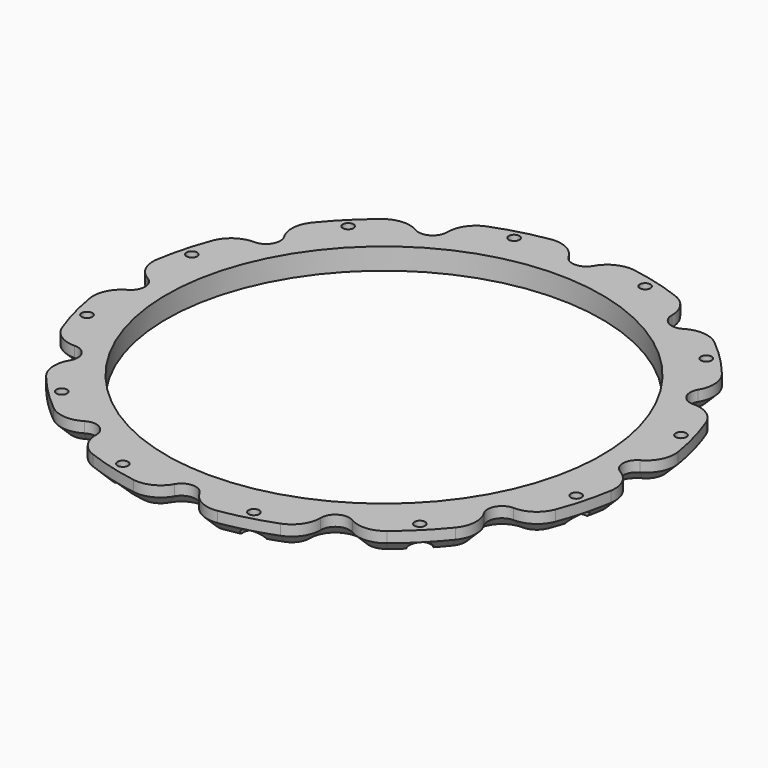
from build123d import *

# Parameters (mm, degrees)
CYLINDER2115_R               = 3
CYLINDER2115_DEPTH           = 3
CYLINDER2115_PLACEMENT_ANGLE = 30
CYLINDER2129_R               = 3
CYLINDER2129_DEPTH           = 3
CYLINDER2129_PLACEMENT_ANGLE = 60
CYLINDER2127_R               = 3
CYLINDER2127_DEPTH           = 3
CYLINDER2120_R               = 3
CYLINDER2120_DEPTH           = 3
CYLINDER2120_PLACEMENT_ANGLE = 120
CYLINDER2119_R               = 3
CYLINDER2119_DEPTH           = 3
CYLINDER2119_PLACEMENT_ANGLE = 150
CYLINDER2130_R               = 3
CYLINDER2130_DEPTH           = 3
CYLINDER2139_R               = 3
CYLINDER2139_DEPTH           = 3
CYLINDER2139_PLACEMENT_ANGLE = 210
CYLINDER2111_R               = 3
CYLINDER2111_DEPTH           = 3
CYLINDER2111_PLACEMENT_ANGLE = 240
CYLINDER2125_R               = 3
CYLINDER2125_DEPTH           = 3
CYLINDER2116_R               = 3
CYLINDER2116_DEPTH           = 3
CYLINDER2116_PLACEMENT_ANGLE = 60
CYLINDER2418_R               = 3
CYLINDER2418_DEPTH           = 3
CYLINDER2418_PLACEMENT_ANGLE = 30
CYLINDER2138_R               = 3
CYLINDER2138_DEPTH           = 3
CYLINDER2124_R               = 1.5
CYLINDER2124_DEPTH           = 60
CYLINDER2124_PLACEMENT_ANGLE = 30
CYLINDER2128_R               = 1.5
CYLINDER2128_DEPTH           = 60
CYLINDER2128_PLACEMENT_ANGLE = 60
CYLINDER2117_R               = 1.5
CYLINDER2117_DEPTH           = 60
CYLINDER2118_R               = 1.5
CYLINDER2118_DEPTH           = 60
CYLINDER2118_PLACEMENT_ANGLE = 120
CYLINDER2126_R               = 1.5
CYLINDER2126_DEPTH           = 60
CYLINDER2126_PLACEMENT_ANGLE = 150
CYLINDER2123_R               = 1.5
CYLINDER2123_DEPTH           = 60
CYLINDER2121_R               = 1.5
CYLINDER2121_DEPTH           = 60
CYLINDER2121_PLACEMENT_ANGLE = 210
CYLINDER2112_R               = 1.5
CYLINDER2112_DEPTH           = 60
CYLINDER2112_PLACEMENT_ANGLE = 240
CYLINDER2113_R               = 1.5
CYLINDER2113_DEPTH           = 60
CYLINDER2114_R               = 1.5
CYLINDER2114_DEPTH           = 60
CYLINDER2114_PLACEMENT_ANGLE = 60
CYLINDER2417_R               = 1.5
CYLINDER2417_DEPTH           = 60
CYLINDER2417_PLACEMENT_ANGLE = 30
CYLINDER2122_R               = 1.5
CYLINDER2122_DEPTH           = 60
CYLINDER2142_R               = 4
CYLINDER2142_DEPTH           = 32
CYLINDER2142_PLACEMENT_ANGLE = 30
CYLINDER2137_R               = 4
CYLINDER2137_DEPTH           = 32
CYLINDER2137_PLACEMENT_ANGLE = 60
CYLINDER2134_R               = 4
CYLINDER2134_DEPTH           = 32
CYLINDER2131_R               = 4
CYLINDER2131_DEPTH           = 32
CYLINDER2131_PLACEMENT_ANGLE = 120
CYLINDER2135_R               = 4
CYLINDER2135_DEPTH           = 32
CYLINDER2135_PLACEMENT_ANGLE = 150
CYLINDER2141_R               = 4
CYLINDER2141_DEPTH           = 32
CYLINDER2132_R               = 4
CYLINDER2132_DEPTH           = 32
CYLINDER2132_PLACEMENT_ANGLE = 210
CYLINDER2143_R               = 4
CYLINDER2143_DEPTH           = 32
CYLINDER2143_PLACEMENT_ANGLE = 240
CYLINDER2140_R               = 4
CYLINDER2140_DEPTH           = 32
CYLINDER2144_R               = 4
CYLINDER2144_DEPTH           = 32
CYLINDER2144_PLACEMENT_ANGLE = 60
CYLINDER2136_R               = 4
CYLINDER2136_DEPTH           = 32
CYLINDER2136_PLACEMENT_ANGLE = 30
CYLINDER2133_R               = 4
CYLINDER2133_DEPTH           = 32
COMPOUND1118_PLACEMENT_ANGLE = 15
TUBE053_R                    = 74
TUBE053_R_2                  = 61
TUBE053_DEPTH                = 6
FILLET005_R                  = 8
FILLET006_R                  = 8
FILLET007_R                  = 8
FILLET008_R                  = 8
CHAMFER084_SIZE              = 3
CUT706_ROLL_ANGLE            = 180
CUT706_PLACEMENT_ANGLE       = 15


with BuildPart() as obj1:
    # Cylinder2115 → Cylinder2115 (new body)
    with BuildSketch(Plane.XY):
        Circle(CYLINDER2115_R)
    extrude(amount=CYLINDER2115_DEPTH)


with BuildPart() as obj1_1:
    # Cylinder2115 placement: moved
    add(obj1.part.moved(Location((35.5, -61.487804, 0))).rotate(Axis((35.5, -61.487804, 0), (0, 0, 1)), CYLINDER2115_PLACEMENT_ANGLE))


with BuildPart() as obj2:
    # Cylinder2129 → Cylinder2129 (new body)
    with BuildSketch(Plane.XY):
        Circle(CYLINDER2129_R)
    extrude(amount=CYLINDER2129_DEPTH)


with BuildPart() as obj2_1:
    # Cylinder2129 placement: moved
    add(obj2.part.moved(Location((61.487804, -35.5, 0))).rotate(Axis((61.487804, -35.5, 0), (0, 0, 1)), CYLINDER2129_PLACEMENT_ANGLE))


with BuildPart() as obj3:
    # Cylinder2127 → Cylinder2127 (new body)
    with BuildSketch(Plane(origin=(71, 0, 0), x_dir=(0, 1, 0), z_dir=(0, 0, 1))):
        Circle(CYLINDER2127_R)
    extrude(amount=CYLINDER2127_DEPTH)


with BuildPart() as obj4:
    # Cylinder2120 → Cylinder2120 (new body)
    with BuildSketch(Plane.XY):
        Circle(CYLINDER2120_R)
    extrude(amount=CYLINDER2120_DEPTH)


with BuildPart() as obj4_1:
    # Cylinder2120 placement: moved
    add(obj4.part.moved(Location((61.487804, 35.5, 0))).rotate(Axis((61.487804, 35.5, 0), (0, 0, 1)), CYLINDER2120_PLACEMENT_ANGLE))


with BuildPart() as obj5:
    # Cylinder2119 → Cylinder2119 (new body)
    with BuildSketch(Plane.XY):
        Circle(CYLINDER2119_R)
    extrude(amount=CYLINDER2119_DEPTH)


with BuildPart() as obj5_1:
    # Cylinder2119 placement: moved
    add(obj5.part.moved(Location((35.5, 61.487804, 0))).rotate(Axis((35.5, 61.487804, 0), (0, 0, 1)), CYLINDER2119_PLACEMENT_ANGLE))


with BuildPart() as obj6:
    # Cylinder2130 → Cylinder2130 (new body)
    with BuildSketch(Plane(origin=(0, 71, 0), x_dir=(-1, 0, 0), z_dir=(0, 0, 1))):
        Circle(CYLINDER2130_R)
    extrude(amount=CYLINDER2130_DEPTH)


with BuildPart() as obj7:
    # Cylinder2139 → Cylinder2139 (new body)
    with BuildSketch(Plane.XY):
        Circle(CYLINDER2139_R)
    extrude(amount=CYLINDER2139_DEPTH)


with BuildPart() as obj7_1:
    # Cylinder2139 placement: moved
    add(obj7.part.moved(Location((-35.5, 61.487804, 0))).rotate(Axis((-35.5, 61.487804, 0), (0, 0, 1)), CYLINDER2139_PLACEMENT_ANGLE))


with BuildPart() as obj8:
    # Cylinder2111 → Cylinder2111 (new body)
    with BuildSketch(Plane.XY):
        Circle(CYLINDER2111_R)
    extrude(amount=CYLINDER2111_DEPTH)


with BuildPart() as obj8_1:
    # Cylinder2111 placement: moved
    add(obj8.part.moved(Location((-61.487804, 35.5, 0))).rotate(Axis((-61.487804, 35.5, 0), (0, 0, 1)), CYLINDER2111_PLACEMENT_ANGLE))


with BuildPart() as obj9:
    # Cylinder2125 → Cylinder2125 (new body)
    with BuildSketch(Plane(origin=(-71, 0, 0), x_dir=(0, -1, 0), z_dir=(0, 0, 1))):
        Circle(CYLINDER2125_R)
    extrude(amount=CYLINDER2125_DEPTH)


with BuildPart() as obj10:
    # Cylinder2116 → Cylinder2116 (new body)
    with BuildSketch(Plane.XY):
        Circle(CYLINDER2116_R)
    extrude(amount=CYLINDER2116_DEPTH)


with BuildPart() as obj10_1:
    # Cylinder2116 placement: moved
    add(obj10.part.moved(Location((-61.487804, -35.5, 0))).rotate(Axis((-61.487804, -35.5, 0), (0, 0, -1)), CYLINDER2116_PLACEMENT_ANGLE))


with BuildPart() as obj11:
    # Cylinder2418 → Cylinder2418 (new body)
    with BuildSketch(Plane.XY):
        Circle(CYLINDER2418_R)
    extrude(amount=CYLINDER2418_DEPTH)


with BuildPart() as obj11_1:
    # Cylinder2418 placement: moved
    add(obj11.part.moved(Location((-35.5, -61.487804, 0))).rotate(Axis((-35.5, -61.487804, 0), (0, 0, -1)), CYLINDER2418_PLACEMENT_ANGLE))


with BuildPart() as compound1117:
    # Cylinder2138 → Cylinder2138 (new body)
    with BuildSketch(Plane(origin=(0, -71, 0), x_dir=(1, 0, 0), z_dir=(0, 0, 1))):
        Circle(CYLINDER2138_R)
    extrude(amount=CYLINDER2138_DEPTH)

    # Compound1117: union obj1, obj2, obj3, obj4, obj5, obj6, obj7, obj8, obj9, obj10, obj11
    add(obj1_1.part)
    add(obj2_1.part)
    add(obj3.part)
    add(obj4_1.part)
    add(obj5_1.part)
    add(obj6.part)
    add(obj7_1.part)
    add(obj8_1.part)
    add(obj9.part)
    add(obj10_1.part)
    add(obj11_1.part)


with BuildPart() as compound1117_1:
    # Compound1117 placement: moved
    add(compound1117.part.moved(Location((0, 0, 17))))


with BuildPart() as obj12:
    # Cylinder2124 → Cylinder2124 (new body)
    with BuildSketch(Plane.XY):
        Circle(CYLINDER2124_R)
    extrude(amount=CYLINDER2124_DEPTH)


with BuildPart() as obj12_1:
    # Cylinder2124 placement: moved
    add(obj12.part.moved(Location((35.5, -61.487804, 0))).rotate(Axis((35.5, -61.487804, 0), (0, 0, 1)), CYLINDER2124_PLACEMENT_ANGLE))


with BuildPart() as obj13:
    # Cylinder2128 → Cylinder2128 (new body)
    with BuildSketch(Plane.XY):
        Circle(CYLINDER2128_R)
    extrude(amount=CYLINDER2128_DEPTH)


with BuildPart() as obj13_1:
    # Cylinder2128 placement: moved
    add(obj13.part.moved(Location((61.487804, -35.5, 0))).rotate(Axis((61.487804, -35.5, 0), (0, 0, 1)), CYLINDER2128_PLACEMENT_ANGLE))


with BuildPart() as obj14:
    # Cylinder2117 → Cylinder2117 (new body)
    with BuildSketch(Plane(origin=(71, 0, 0), x_dir=(0, 1, 0), z_dir=(0, 0, 1))):
        Circle(CYLINDER2117_R)
    extrude(amount=CYLINDER2117_DEPTH)


with BuildPart() as obj15:
    # Cylinder2118 → Cylinder2118 (new body)
    with BuildSketch(Plane.XY):
        Circle(CYLINDER2118_R)
    extrude(amount=CYLINDER2118_DEPTH)


with BuildPart() as obj15_1:
    # Cylinder2118 placement: moved
    add(obj15.part.moved(Location((61.487804, 35.5, 0))).rotate(Axis((61.487804, 35.5, 0), (0, 0, 1)), CYLINDER2118_PLACEMENT_ANGLE))


with BuildPart() as obj16:
    # Cylinder2126 → Cylinder2126 (new body)
    with BuildSketch(Plane.XY):
        Circle(CYLINDER2126_R)
    extrude(amount=CYLINDER2126_DEPTH)


with BuildPart() as obj16_1:
    # Cylinder2126 placement: moved
    add(obj16.part.moved(Location((35.5, 61.487804, 0))).rotate(Axis((35.5, 61.487804, 0), (0, 0, 1)), CYLINDER2126_PLACEMENT_ANGLE))


with BuildPart() as obj17:
    # Cylinder2123 → Cylinder2123 (new body)
    with BuildSketch(Plane(origin=(0, 71, 0), x_dir=(-1, 0, 0), z_dir=(0, 0, 1))):
        Circle(CYLINDER2123_R)
    extrude(amount=CYLINDER2123_DEPTH)


with BuildPart() as obj18:
    # Cylinder2121 → Cylinder2121 (new body)
    with BuildSketch(Plane.XY):
        Circle(CYLINDER2121_R)
    extrude(amount=CYLINDER2121_DEPTH)


with BuildPart() as obj18_1:
    # Cylinder2121 placement: moved
    add(obj18.part.moved(Location((-35.5, 61.487804, 0))).rotate(Axis((-35.5, 61.487804, 0), (0, 0, 1)), CYLINDER2121_PLACEMENT_ANGLE))


with BuildPart() as obj19:
    # Cylinder2112 → Cylinder2112 (new body)
    with BuildSketch(Plane.XY):
        Circle(CYLINDER2112_R)
    extrude(amount=CYLINDER2112_DEPTH)


with BuildPart() as obj19_1:
    # Cylinder2112 placement: moved
    add(obj19.part.moved(Location((-61.487804, 35.5, 0))).rotate(Axis((-61.487804, 35.5, 0), (0, 0, 1)), CYLINDER2112_PLACEMENT_ANGLE))


with BuildPart() as obj20:
    # Cylinder2113 → Cylinder2113 (new body)
    with BuildSketch(Plane(origin=(-71, 0, 0), x_dir=(0, -1, 0), z_dir=(0, 0, 1))):
        Circle(CYLINDER2113_R)
    extrude(amount=CYLINDER2113_DEPTH)


with BuildPart() as obj21:
    # Cylinder2114 → Cylinder2114 (new body)
    with BuildSketch(Plane.XY):
        Circle(CYLINDER2114_R)
    extrude(amount=CYLINDER2114_DEPTH)


with BuildPart() as obj21_1:
    # Cylinder2114 placement: moved
    add(obj21.part.moved(Location((-61.487804, -35.5, 0))).rotate(Axis((-61.487804, -35.5, 0), (0, 0, -1)), CYLINDER2114_PLACEMENT_ANGLE))


with BuildPart() as obj22:
    # Cylinder2417 → Cylinder2417 (new body)
    with BuildSketch(Plane.XY):
        Circle(CYLINDER2417_R)
    extrude(amount=CYLINDER2417_DEPTH)


with BuildPart() as obj22_1:
    # Cylinder2417 placement: moved
    add(obj22.part.moved(Location((-35.5, -61.487804, 0))).rotate(Axis((-35.5, -61.487804, 0), (0, 0, -1)), CYLINDER2417_PLACEMENT_ANGLE))


with BuildPart() as compound1116:
    # Cylinder2122 → Cylinder2122 (new body)
    with BuildSketch(Plane(origin=(0, -71, 0), x_dir=(1, 0, 0), z_dir=(0, 0, 1))):
        Circle(CYLINDER2122_R)
    extrude(amount=CYLINDER2122_DEPTH)

    # Compound1116: union obj12, obj13, obj14, obj15, obj16, obj17, obj18, obj19, obj20, obj21, obj22
    add(obj12_1.part)
    add(obj13_1.part)
    add(obj14.part)
    add(obj15_1.part)
    add(obj16_1.part)
    add(obj17.part)
    add(obj18_1.part)
    add(obj19_1.part)
    add(obj20.part)
    add(obj21_1.part)
    add(obj22_1.part)


with BuildPart() as obj23:
    # Cylinder2142 → Cylinder2142 (new body)
    with BuildSketch(Plane.XY):
        Circle(CYLINDER2142_R)
    extrude(amount=CYLINDER2142_DEPTH)


with BuildPart() as obj23_1:
    # Cylinder2142 placement: moved
    add(obj23.part.moved(Location((35.5, -61.487804, 0))).rotate(Axis((35.5, -61.487804, 0), (0, 0, 1)), CYLINDER2142_PLACEMENT_ANGLE))


with BuildPart() as obj24:
    # Cylinder2137 → Cylinder2137 (new body)
    with BuildSketch(Plane.XY):
        Circle(CYLINDER2137_R)
    extrude(amount=CYLINDER2137_DEPTH)


with BuildPart() as obj24_1:
    # Cylinder2137 placement: moved
    add(obj24.part.moved(Location((61.487804, -35.5, 0))).rotate(Axis((61.487804, -35.5, 0), (0, 0, 1)), CYLINDER2137_PLACEMENT_ANGLE))


with BuildPart() as obj25:
    # Cylinder2134 → Cylinder2134 (new body)
    with BuildSketch(Plane(origin=(71, 0, 0), x_dir=(0, 1, 0), z_dir=(0, 0, 1))):
        Circle(CYLINDER2134_R)
    extrude(amount=CYLINDER2134_DEPTH)


with BuildPart() as obj26:
    # Cylinder2131 → Cylinder2131 (new body)
    with BuildSketch(Plane.XY):
        Circle(CYLINDER2131_R)
    extrude(amount=CYLINDER2131_DEPTH)


with BuildPart() as obj26_1:
    # Cylinder2131 placement: moved
    add(obj26.part.moved(Location((61.487804, 35.5, 0))).rotate(Axis((61.487804, 35.5, 0), (0, 0, 1)), CYLINDER2131_PLACEMENT_ANGLE))


with BuildPart() as obj27:
    # Cylinder2135 → Cylinder2135 (new body)
    with BuildSketch(Plane.XY):
        Circle(CYLINDER2135_R)
    extrude(amount=CYLINDER2135_DEPTH)


with BuildPart() as obj27_1:
    # Cylinder2135 placement: moved
    add(obj27.part.moved(Location((35.5, 61.487804, 0))).rotate(Axis((35.5, 61.487804, 0), (0, 0, 1)), CYLINDER2135_PLACEMENT_ANGLE))


with BuildPart() as obj28:
    # Cylinder2141 → Cylinder2141 (new body)
    with BuildSketch(Plane(origin=(0, 71, 0), x_dir=(-1, 0, 0), z_dir=(0, 0, 1))):
        Circle(CYLINDER2141_R)
    extrude(amount=CYLINDER2141_DEPTH)


with BuildPart() as obj29:
    # Cylinder2132 → Cylinder2132 (new body)
    with BuildSketch(Plane.XY):
        Circle(CYLINDER2132_R)
    extrude(amount=CYLINDER2132_DEPTH)


with BuildPart() as obj29_1:
    # Cylinder2132 placement: moved
    add(obj29.part.moved(Location((-35.5, 61.487804, 0))).rotate(Axis((-35.5, 61.487804, 0), (0, 0, 1)), CYLINDER2132_PLACEMENT_ANGLE))


with BuildPart() as obj30:
    # Cylinder2143 → Cylinder2143 (new body)
    with BuildSketch(Plane.XY):
        Circle(CYLINDER2143_R)
    extrude(amount=CYLINDER2143_DEPTH)


with BuildPart() as obj30_1:
    # Cylinder2143 placement: moved
    add(obj30.part.moved(Location((-61.487804, 35.5, 0))).rotate(Axis((-61.487804, 35.5, 0), (0, 0, 1)), CYLINDER2143_PLACEMENT_ANGLE))


with BuildPart() as obj31:
    # Cylinder2140 → Cylinder2140 (new body)
    with BuildSketch(Plane(origin=(-71, 0, 0), x_dir=(0, -1, 0), z_dir=(0, 0, 1))):
        Circle(CYLINDER2140_R)
    extrude(amount=CYLINDER2140_DEPTH)


with BuildPart() as obj32:
    # Cylinder2144 → Cylinder2144 (new body)
    with BuildSketch(Plane.XY):
        Circle(CYLINDER2144_R)
    extrude(amount=CYLINDER2144_DEPTH)


with BuildPart() as obj32_1:
    # Cylinder2144 placement: moved
    add(obj32.part.moved(Location((-61.487804, -35.5, 0))).rotate(Axis((-61.487804, -35.5, 0), (0, 0, -1)), CYLINDER2144_PLACEMENT_ANGLE))


with BuildPart() as obj33:
    # Cylinder2136 → Cylinder2136 (new body)
    with BuildSketch(Plane.XY):
        Circle(CYLINDER2136_R)
    extrude(amount=CYLINDER2136_DEPTH)


with BuildPart() as obj33_1:
    # Cylinder2136 placement: moved
    add(obj33.part.moved(Location((-35.5, -61.487804, 0))).rotate(Axis((-35.5, -61.487804, 0), (0, 0, -1)), CYLINDER2136_PLACEMENT_ANGLE))


with BuildPart() as compound1118:
    # Cylinder2133 → Cylinder2133 (new body)
    with BuildSketch(Plane(origin=(0, -71, 0), x_dir=(1, 0, 0), z_dir=(0, 0, 1))):
        Circle(CYLINDER2133_R)
    extrude(amount=CYLINDER2133_DEPTH)

    # Compound1118: union obj23, obj24, obj25, obj26, obj27, obj28, obj29, obj30, obj31, obj32, obj33
    add(obj23_1.part)
    add(obj24_1.part)
    add(obj25.part)
    add(obj26_1.part)
    add(obj27_1.part)
    add(obj28.part)
    add(obj29_1.part)
    add(obj30_1.part)
    add(obj31.part)
    add(obj32_1.part)
    add(obj33_1.part)


with BuildPart() as compound1118_1:
    # Compound1118 placement: moved
    add(compound1118.part.moved(Location((0, 0, 0))).rotate(Axis((0, 0, 0), (0, 0, 1)), COMPOUND1118_PLACEMENT_ANGLE))


with BuildPart() as base_big_ring_seal_wavy:
    # Tube053 → Tube053 (new body)
    with BuildSketch(Plane.XY.offset(14)):
        Circle(TUBE053_R)
        Circle(TUBE053_R_2, mode=Mode.SUBTRACT)
    extrude(amount=TUBE053_DEPTH)

    # Cut705: cut Compound1118
    add(compound1118_1.part, mode=Mode.SUBTRACT)

    # Fillet005
    fillet005_edges = [base_big_ring_seal_wavy.edges().sort_by_distance(p)[0] for p in [
        (-72.129867, 16.531253, 17),
        (-70.731923, 21.748449, 17),
    ]]
    fillet(fillet005_edges, radius=FILLET005_R)

    # Fillet006
    fillet006_edges = [base_big_ring_seal_wavy.edges().sort_by_distance(p)[0] for p in [
        (-54.200671, 50.381418, 17),
        (-50.381418, 54.200671, 17),
        (-21.748449, 70.731923, 17),
        (-16.531253, 72.129867, 17),
        (16.531253, 72.129867, 17),
        (21.748449, 70.731923, 17),
    ]]
    fillet(fillet006_edges, radius=FILLET006_R)

    # Fillet007
    fillet007_edges = [base_big_ring_seal_wavy.edges().sort_by_distance(p)[0] for p in [
        (50.381418, 54.200671, 17),
        (54.200671, 50.381418, 17),
        (70.731923, 21.748449, 17),
        (72.129867, 16.531253, 17),
        (72.129867, -16.531253, 17),
        (70.731923, -21.748449, 17),
        (54.200671, -50.381418, 17),
        (50.381418, -54.200671, 17),
        (21.748449, -70.731923, 17),
        (16.531253, -72.129867, 17),
    ]]
    fillet(fillet007_edges, radius=FILLET007_R)

    # Fillet008
    fillet008_edges = [base_big_ring_seal_wavy.edges().sort_by_distance(p)[0] for p in [
        (-72.129867, -16.531253, 17),
        (-70.731923, -21.748449, 17),
        (-54.200671, -50.381418, 17),
        (-16.531253, -72.129867, 17),
        (-50.381418, -54.200671, 17),
        (-21.748449, -70.731923, 17),
    ]]
    fillet(fillet008_edges, radius=FILLET008_R)

    # Chamfer084
    chamfer084_edges = [base_big_ring_seal_wavy.edges().sort_by_distance(p)[0] for p in [
        (-74, 0, 20),
        (-71.704295, -11.973474, 20),
        (-71.704295, 11.973474, 20),
        (-64.71703, -17.340876, 20),
        (-64.71703, 17.340876, 20),
        (-68.084478, -25.482815, 20),
        (-68.084478, 25.482815, 20),
        (-64.08588, -37, 20),
        (-64.08588, 37, 20),
        (-56.111004, -46.22148, 20),
        (-47.376154, -47.376154, 20),
        (-46.22148, -56.111004, 20),
        (-37, -64.08588, 20),
    ]]
    chamfer(chamfer084_edges, length=CHAMFER084_SIZE)

    # Cut707: cut Compound1116
    add(compound1116.part, mode=Mode.SUBTRACT)

    # Cut706: cut Compound1117
    add(compound1117_1.part, mode=Mode.SUBTRACT)


with BuildPart() as base_big_ring_seal_wavy_1:
    # Cut706 roll: moved
    add(base_big_ring_seal_wavy.part.rotate(Axis((0, 0, 0), (1, 0, 0)), CUT706_ROLL_ANGLE))


with BuildPart() as base_big_ring_seal_wavy_2:
    # Cut706 placement: moved
    add(base_big_ring_seal_wavy_1.part.moved(Location((0, 0, 17))).rotate(Axis((0, 0, 17), (0, 0, 1)), CUT706_PLACEMENT_ANGLE))


solid = base_big_ring_seal_wavy_2.part
